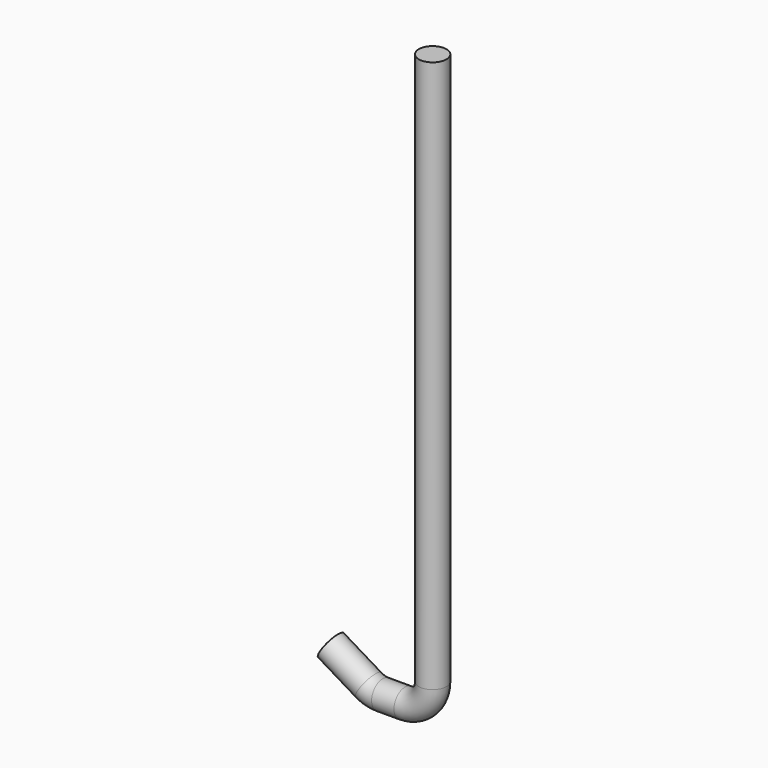
from build123d import *

# Parameters (mm, degrees)
F2_R = 6.35


with BuildPart() as f3:
    # F3: sweep along a path in F0
    with BuildLine(Plane.XZ) as f3_path:
        Line((0, 202.6265044332), (0, -51.3734955668))
        ThreePointArc((0, -51.3734955668), (-3.7197438789, -60.3537516879), (-12.7, -64.0734955668))
        Line((-12.7, -64.0734955668), (-22.9959605263, -64.0734955668))
        ThreePointArc((-22.9959605263, -64.0734955668), (-26.395684753, -63.609993235), (-29.5472546322, -62.2533184302))
        Line((-29.5472546322, -62.2533184302), (-46.827133745, -51.8482252955))
    # F2 (on plane+point) → F3 (sweep)
    with BuildSketch(Plane.XY.offset(202.6265044332)):
        Circle(F2_R)
    sweep(path=f3_path.line)


solid = f3.part
